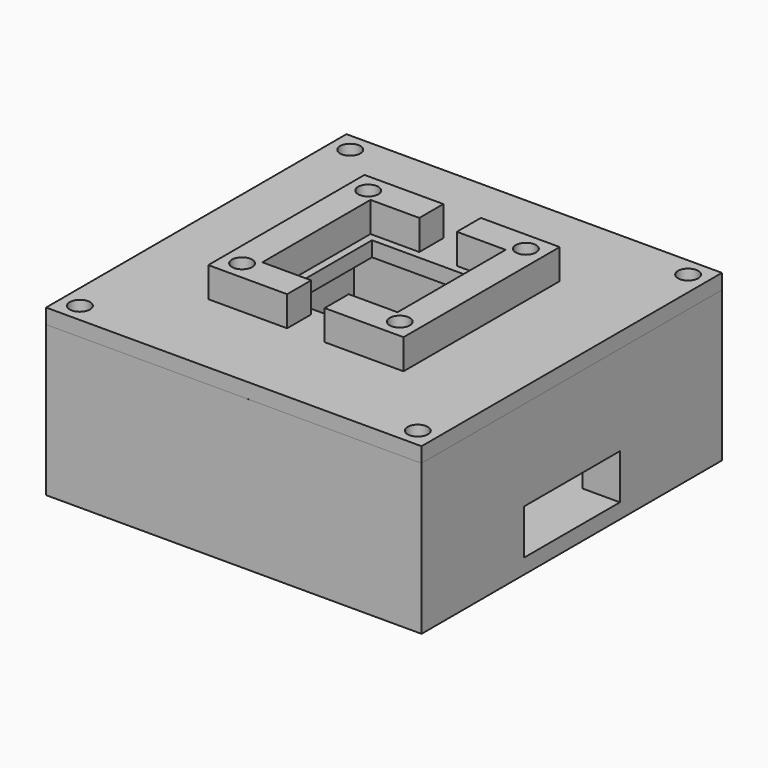
from build123d import *

# Parameters (mm, degrees)
F0_W        = 50
F0_H        = 50
F0_W_2      = 40
F0_H_2      = 40
F1_DEPTH    = 18
F2_DEPTH    = 2
F3_W        = 16
F3_H        = 6
F4_DEPTH    = 5
F5_W        = 50
F5_H        = 50
F5_W_2      = 40
F5_H_2      = 40
F5_W_3      = 16
F5_H_3      = 16
F6_DEPTH    = 2
F7_W        = 26
F7_H        = 26
F7_W_2      = 18
F7_H_2      = 18
F8_DEPTH    = 4
F10_D       = 2.7
F10_DEPTH   = 4
F10_TIP     = 0.8111618357
F9_W        = 5
F9_H        = 4
F11_DEPTH   = 4
F13_D       = 2.7
F13_DEPTH   = 4
F13_TIP     = 0.8111618357
F13_2_D     = 2.7
F13_2_DEPTH = 4
F13_2_TIP   = 0.8111618357


with BuildPart() as f1:
    # F0 (on Top) → F1 (new body)
    with BuildSketch(Plane.XY):
        Rectangle(F0_W, F0_H)
        Rectangle(F0_W_2, F0_H_2, mode=Mode.SUBTRACT)
    extrude(amount=F1_DEPTH)

    # F0 (on Top) → F2 (join)
    with BuildSketch(Plane.XY):
        Rectangle(F0_W, F0_H)
        Rectangle(F0_W_2, F0_H_2, mode=Mode.SUBTRACT)
        Rectangle(F0_W_2, F0_H_2)
    extrude(amount=-F2_DEPTH)

    # F3 (on face) → F4 (cut, through all)
    with BuildSketch(Plane.YZ.offset(25)):
        with Locations((0.0201961273, 3)):
            Rectangle(F3_W, F3_H)
    extrude(amount=-F4_DEPTH, mode=Mode.SUBTRACT)

    # F13
    with Locations(Plane.XY.offset(20)):
        with Locations((-22.5, 22.5), (22.5, 22.5), (-22.5, -22.5), (22.5, -22.5)):
            Hole(F13_D / 2, depth=F13_DEPTH)
            with Locations((0, 0, -(F13_DEPTH + F13_TIP / 2))):  # 118° drill point
                Cone(0, F13_D / 2, F13_TIP, mode=Mode.SUBTRACT)


with BuildPart() as f6:
    # F5 (on face) → F6 (new body)
    with BuildSketch(Plane.XY.offset(18)):
        Rectangle(F5_W, F5_H)
        Rectangle(F5_W_2, F5_H_2, mode=Mode.SUBTRACT)
        Rectangle(F5_W_2, F5_H_2)
        Rectangle(F5_W_3, F5_H_3, mode=Mode.SUBTRACT)
    extrude(amount=F6_DEPTH)

    # F7 (on face) → F8 (join)
    with BuildSketch(Plane.XY.offset(20)):
        Rectangle(F7_W, F7_H)
        Rectangle(F7_W_2, F7_H_2, mode=Mode.SUBTRACT)
    extrude(amount=F8_DEPTH)

    # F10
    with Locations(Plane.XY.offset(24)):
        with Locations((-10.5, 10.5), (10.5, 10.5), (-10.5, -10.5), (10.5, -10.5)):
            Hole(F10_D / 2, depth=F10_DEPTH)
            with Locations((0, 0, -(F10_DEPTH + F10_TIP / 2))):  # 118° drill point
                Cone(0, F10_D / 2, F10_TIP, mode=Mode.SUBTRACT)

    # F9 (on face) → F11 (cut, through all)
    with BuildSketch(Plane.XY.offset(24)):
        with Locations((0, 11)):
            Rectangle(F9_W, F9_H)
        with Locations((0, -11)):
            Rectangle(F9_W, F9_H)
    extrude(amount=-F11_DEPTH, mode=Mode.SUBTRACT)

    # F13#2
    with Locations(Plane.XY.offset(20)):
        with Locations((-22.5, 22.5), (22.5, 22.5), (-22.5, -22.5), (22.5, -22.5)):
            Hole(F13_2_D / 2, depth=F13_2_DEPTH)
            with Locations((0, 0, -(F13_2_DEPTH + F13_2_TIP / 2))):  # 118° drill point
                Cone(0, F13_2_D / 2, F13_2_TIP, mode=Mode.SUBTRACT)


solid = Compound([f1.part, f6.part])
